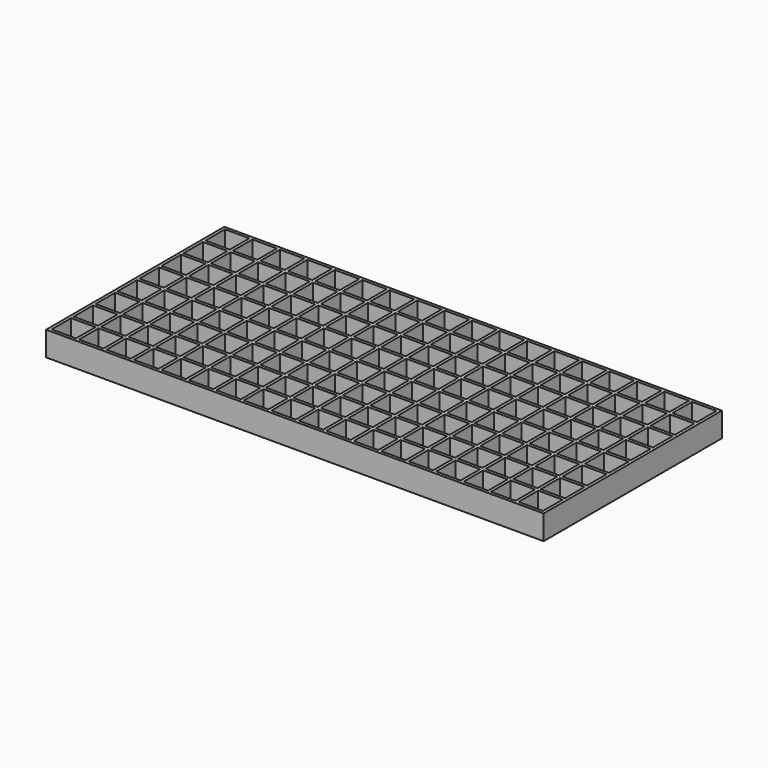
from build123d import *

# Parameters (mm, degrees)
F0_W     = 258.7625
F0_H     = 115.8875
F0_W_2   = 12.7
F0_H_2   = 12.7
F1_DEPTH = 12.7


with BuildPart() as f1:
    # F0 (on Top) → F1 (new body)
    with BuildSketch(Plane.XY):
        with Locations((127.79375, 56.35625)):
            Rectangle(F0_W, F0_H)
        with Locations((6.35, 6.35)):
            Rectangle(F0_W_2, F0_H_2, mode=Mode.SUBTRACT)
        with Locations((20.6375, 6.35)):
            Rectangle(F0_W_2, F0_H_2, mode=Mode.SUBTRACT)
        with Locations((34.925, 6.35)):
            Rectangle(F0_W_2, F0_H_2, mode=Mode.SUBTRACT)
        with Locations((49.2125, 6.35)):
            Rectangle(F0_W_2, F0_H_2, mode=Mode.SUBTRACT)
        with Locations((6.35, 20.6375)):
            Rectangle(F0_W_2, F0_H_2, mode=Mode.SUBTRACT)
        with Locations((20.6375, 20.6375)):
            Rectangle(F0_W_2, F0_H_2, mode=Mode.SUBTRACT)
        with Locations((34.925, 20.6375)):
            Rectangle(F0_W_2, F0_H_2, mode=Mode.SUBTRACT)
        with Locations((49.2125, 20.6375)):
            Rectangle(F0_W_2, F0_H_2, mode=Mode.SUBTRACT)
        with Locations((63.5, 6.35)):
            Rectangle(F0_W_2, F0_H_2, mode=Mode.SUBTRACT)
        with Locations((77.7875, 6.35)):
            Rectangle(F0_W_2, F0_H_2, mode=Mode.SUBTRACT)
        with Locations((92.075, 6.35)):
            Rectangle(F0_W_2, F0_H_2, mode=Mode.SUBTRACT)
        with Locations((106.3625, 6.35)):
            Rectangle(F0_W_2, F0_H_2, mode=Mode.SUBTRACT)
        with Locations((120.65, 6.35)):
            Rectangle(F0_W_2, F0_H_2, mode=Mode.SUBTRACT)
        with Locations((63.5, 20.6375)):
            Rectangle(F0_W_2, F0_H_2, mode=Mode.SUBTRACT)
        with Locations((77.7875, 20.6375)):
            Rectangle(F0_W_2, F0_H_2, mode=Mode.SUBTRACT)
        with Locations((92.075, 20.6375)):
            Rectangle(F0_W_2, F0_H_2, mode=Mode.SUBTRACT)
        with Locations((106.3625, 20.6375)):
            Rectangle(F0_W_2, F0_H_2, mode=Mode.SUBTRACT)
        with Locations((120.65, 20.6375)):
            Rectangle(F0_W_2, F0_H_2, mode=Mode.SUBTRACT)
        with Locations((6.35, 34.925)):
            Rectangle(F0_W_2, F0_H_2, mode=Mode.SUBTRACT)
        with Locations((20.6375, 34.925)):
            Rectangle(F0_W_2, F0_H_2, mode=Mode.SUBTRACT)
        with Locations((34.925, 34.925)):
            Rectangle(F0_W_2, F0_H_2, mode=Mode.SUBTRACT)
        with Locations((49.2125, 34.925)):
            Rectangle(F0_W_2, F0_H_2, mode=Mode.SUBTRACT)
        with Locations((6.35, 49.2125)):
            Rectangle(F0_W_2, F0_H_2, mode=Mode.SUBTRACT)
        with Locations((20.6375, 49.2125)):
            Rectangle(F0_W_2, F0_H_2, mode=Mode.SUBTRACT)
        with Locations((34.925, 49.2125)):
            Rectangle(F0_W_2, F0_H_2, mode=Mode.SUBTRACT)
        with Locations((49.2125, 49.2125)):
            Rectangle(F0_W_2, F0_H_2, mode=Mode.SUBTRACT)
        with Locations((63.5, 34.925)):
            Rectangle(F0_W_2, F0_H_2, mode=Mode.SUBTRACT)
        with Locations((77.7875, 34.925)):
            Rectangle(F0_W_2, F0_H_2, mode=Mode.SUBTRACT)
        with Locations((92.075, 34.925)):
            Rectangle(F0_W_2, F0_H_2, mode=Mode.SUBTRACT)
        with Locations((106.3625, 34.925)):
            Rectangle(F0_W_2, F0_H_2, mode=Mode.SUBTRACT)
        with Locations((120.65, 34.925)):
            Rectangle(F0_W_2, F0_H_2, mode=Mode.SUBTRACT)
        with Locations((63.5, 49.2125)):
            Rectangle(F0_W_2, F0_H_2, mode=Mode.SUBTRACT)
        with Locations((77.7875, 49.2125)):
            Rectangle(F0_W_2, F0_H_2, mode=Mode.SUBTRACT)
        with Locations((92.075, 49.2125)):
            Rectangle(F0_W_2, F0_H_2, mode=Mode.SUBTRACT)
        with Locations((106.3625, 49.2125)):
            Rectangle(F0_W_2, F0_H_2, mode=Mode.SUBTRACT)
        with Locations((120.65, 49.2125)):
            Rectangle(F0_W_2, F0_H_2, mode=Mode.SUBTRACT)
        with Locations((134.9375, 6.35)):
            Rectangle(F0_W_2, F0_H_2, mode=Mode.SUBTRACT)
        with Locations((149.225, 6.35)):
            Rectangle(F0_W_2, F0_H_2, mode=Mode.SUBTRACT)
        with Locations((163.5125, 6.35)):
            Rectangle(F0_W_2, F0_H_2, mode=Mode.SUBTRACT)
        with Locations((177.8, 6.35)):
            Rectangle(F0_W_2, F0_H_2, mode=Mode.SUBTRACT)
        with Locations((192.0875, 6.35)):
            Rectangle(F0_W_2, F0_H_2, mode=Mode.SUBTRACT)
        with Locations((134.9375, 20.6375)):
            Rectangle(F0_W_2, F0_H_2, mode=Mode.SUBTRACT)
        with Locations((149.225, 20.6375)):
            Rectangle(F0_W_2, F0_H_2, mode=Mode.SUBTRACT)
        with Locations((163.5125, 20.6375)):
            Rectangle(F0_W_2, F0_H_2, mode=Mode.SUBTRACT)
        with Locations((177.8, 20.6375)):
            Rectangle(F0_W_2, F0_H_2, mode=Mode.SUBTRACT)
        with Locations((192.0875, 20.6375)):
            Rectangle(F0_W_2, F0_H_2, mode=Mode.SUBTRACT)
        with Locations((206.375, 6.35)):
            Rectangle(F0_W_2, F0_H_2, mode=Mode.SUBTRACT)
        with Locations((220.6625, 6.35)):
            Rectangle(F0_W_2, F0_H_2, mode=Mode.SUBTRACT)
        with Locations((234.95, 6.35)):
            Rectangle(F0_W_2, F0_H_2, mode=Mode.SUBTRACT)
        with Locations((249.2375, 6.35)):
            Rectangle(F0_W_2, F0_H_2, mode=Mode.SUBTRACT)
        with Locations((206.375, 20.6375)):
            Rectangle(F0_W_2, F0_H_2, mode=Mode.SUBTRACT)
        with Locations((220.6625, 20.6375)):
            Rectangle(F0_W_2, F0_H_2, mode=Mode.SUBTRACT)
        with Locations((234.95, 20.6375)):
            Rectangle(F0_W_2, F0_H_2, mode=Mode.SUBTRACT)
        with Locations((249.2375, 20.6375)):
            Rectangle(F0_W_2, F0_H_2, mode=Mode.SUBTRACT)
        with Locations((134.9375, 34.925)):
            Rectangle(F0_W_2, F0_H_2, mode=Mode.SUBTRACT)
        with Locations((149.225, 34.925)):
            Rectangle(F0_W_2, F0_H_2, mode=Mode.SUBTRACT)
        with Locations((163.5125, 34.925)):
            Rectangle(F0_W_2, F0_H_2, mode=Mode.SUBTRACT)
        with Locations((177.8, 34.925)):
            Rectangle(F0_W_2, F0_H_2, mode=Mode.SUBTRACT)
        with Locations((192.0875, 34.925)):
            Rectangle(F0_W_2, F0_H_2, mode=Mode.SUBTRACT)
        with Locations((134.9375, 49.2125)):
            Rectangle(F0_W_2, F0_H_2, mode=Mode.SUBTRACT)
        with Locations((149.225, 49.2125)):
            Rectangle(F0_W_2, F0_H_2, mode=Mode.SUBTRACT)
        with Locations((163.5125, 49.2125)):
            Rectangle(F0_W_2, F0_H_2, mode=Mode.SUBTRACT)
        with Locations((177.8, 49.2125)):
            Rectangle(F0_W_2, F0_H_2, mode=Mode.SUBTRACT)
        with Locations((192.0875, 49.2125)):
            Rectangle(F0_W_2, F0_H_2, mode=Mode.SUBTRACT)
        with Locations((206.375, 34.925)):
            Rectangle(F0_W_2, F0_H_2, mode=Mode.SUBTRACT)
        with Locations((220.6625, 34.925)):
            Rectangle(F0_W_2, F0_H_2, mode=Mode.SUBTRACT)
        with Locations((234.95, 34.925)):
            Rectangle(F0_W_2, F0_H_2, mode=Mode.SUBTRACT)
        with Locations((249.2375, 34.925)):
            Rectangle(F0_W_2, F0_H_2, mode=Mode.SUBTRACT)
        with Locations((206.375, 49.2125)):
            Rectangle(F0_W_2, F0_H_2, mode=Mode.SUBTRACT)
        with Locations((220.6625, 49.2125)):
            Rectangle(F0_W_2, F0_H_2, mode=Mode.SUBTRACT)
        with Locations((234.95, 49.2125)):
            Rectangle(F0_W_2, F0_H_2, mode=Mode.SUBTRACT)
        with Locations((249.2375, 49.2125)):
            Rectangle(F0_W_2, F0_H_2, mode=Mode.SUBTRACT)
        with Locations((6.35, 63.5)):
            Rectangle(F0_W_2, F0_H_2, mode=Mode.SUBTRACT)
        with Locations((20.6375, 63.5)):
            Rectangle(F0_W_2, F0_H_2, mode=Mode.SUBTRACT)
        with Locations((34.925, 63.5)):
            Rectangle(F0_W_2, F0_H_2, mode=Mode.SUBTRACT)
        with Locations((49.2125, 63.5)):
            Rectangle(F0_W_2, F0_H_2, mode=Mode.SUBTRACT)
        with Locations((6.35, 77.7875)):
            Rectangle(F0_W_2, F0_H_2, mode=Mode.SUBTRACT)
        with Locations((20.6375, 77.7875)):
            Rectangle(F0_W_2, F0_H_2, mode=Mode.SUBTRACT)
        with Locations((34.925, 77.7875)):
            Rectangle(F0_W_2, F0_H_2, mode=Mode.SUBTRACT)
        with Locations((49.2125, 77.7875)):
            Rectangle(F0_W_2, F0_H_2, mode=Mode.SUBTRACT)
        with Locations((63.5, 63.5)):
            Rectangle(F0_W_2, F0_H_2, mode=Mode.SUBTRACT)
        with Locations((77.7875, 63.5)):
            Rectangle(F0_W_2, F0_H_2, mode=Mode.SUBTRACT)
        with Locations((92.075, 63.5)):
            Rectangle(F0_W_2, F0_H_2, mode=Mode.SUBTRACT)
        with Locations((106.3625, 63.5)):
            Rectangle(F0_W_2, F0_H_2, mode=Mode.SUBTRACT)
        with Locations((120.65, 63.5)):
            Rectangle(F0_W_2, F0_H_2, mode=Mode.SUBTRACT)
        with Locations((63.5, 77.7875)):
            Rectangle(F0_W_2, F0_H_2, mode=Mode.SUBTRACT)
        with Locations((77.7875, 77.7875)):
            Rectangle(F0_W_2, F0_H_2, mode=Mode.SUBTRACT)
        with Locations((92.075, 77.7875)):
            Rectangle(F0_W_2, F0_H_2, mode=Mode.SUBTRACT)
        with Locations((106.3625, 77.7875)):
            Rectangle(F0_W_2, F0_H_2, mode=Mode.SUBTRACT)
        with Locations((120.65, 77.7875)):
            Rectangle(F0_W_2, F0_H_2, mode=Mode.SUBTRACT)
        with Locations((6.35, 92.075)):
            Rectangle(F0_W_2, F0_H_2, mode=Mode.SUBTRACT)
        with Locations((20.6375, 92.075)):
            Rectangle(F0_W_2, F0_H_2, mode=Mode.SUBTRACT)
        with Locations((34.925, 92.075)):
            Rectangle(F0_W_2, F0_H_2, mode=Mode.SUBTRACT)
        with Locations((49.2125, 92.075)):
            Rectangle(F0_W_2, F0_H_2, mode=Mode.SUBTRACT)
        with Locations((6.35, 106.3625)):
            Rectangle(F0_W_2, F0_H_2, mode=Mode.SUBTRACT)
        with Locations((20.6375, 106.3625)):
            Rectangle(F0_W_2, F0_H_2, mode=Mode.SUBTRACT)
        with Locations((34.925, 106.3625)):
            Rectangle(F0_W_2, F0_H_2, mode=Mode.SUBTRACT)
        with Locations((49.2125, 106.3625)):
            Rectangle(F0_W_2, F0_H_2, mode=Mode.SUBTRACT)
        with Locations((63.5, 92.075)):
            Rectangle(F0_W_2, F0_H_2, mode=Mode.SUBTRACT)
        with Locations((77.7875, 92.075)):
            Rectangle(F0_W_2, F0_H_2, mode=Mode.SUBTRACT)
        with Locations((92.075, 92.075)):
            Rectangle(F0_W_2, F0_H_2, mode=Mode.SUBTRACT)
        with Locations((106.3625, 92.075)):
            Rectangle(F0_W_2, F0_H_2, mode=Mode.SUBTRACT)
        with Locations((120.65, 92.075)):
            Rectangle(F0_W_2, F0_H_2, mode=Mode.SUBTRACT)
        with Locations((63.5, 106.3625)):
            Rectangle(F0_W_2, F0_H_2, mode=Mode.SUBTRACT)
        with Locations((77.7875, 106.3625)):
            Rectangle(F0_W_2, F0_H_2, mode=Mode.SUBTRACT)
        with Locations((92.075, 106.3625)):
            Rectangle(F0_W_2, F0_H_2, mode=Mode.SUBTRACT)
        with Locations((106.3625, 106.3625)):
            Rectangle(F0_W_2, F0_H_2, mode=Mode.SUBTRACT)
        with Locations((120.65, 106.3625)):
            Rectangle(F0_W_2, F0_H_2, mode=Mode.SUBTRACT)
        with Locations((134.9375, 63.5)):
            Rectangle(F0_W_2, F0_H_2, mode=Mode.SUBTRACT)
        with Locations((149.225, 63.5)):
            Rectangle(F0_W_2, F0_H_2, mode=Mode.SUBTRACT)
        with Locations((163.5125, 63.5)):
            Rectangle(F0_W_2, F0_H_2, mode=Mode.SUBTRACT)
        with Locations((177.8, 63.5)):
            Rectangle(F0_W_2, F0_H_2, mode=Mode.SUBTRACT)
        with Locations((192.0875, 63.5)):
            Rectangle(F0_W_2, F0_H_2, mode=Mode.SUBTRACT)
        with Locations((134.9375, 77.7875)):
            Rectangle(F0_W_2, F0_H_2, mode=Mode.SUBTRACT)
        with Locations((149.225, 77.7875)):
            Rectangle(F0_W_2, F0_H_2, mode=Mode.SUBTRACT)
        with Locations((163.5125, 77.7875)):
            Rectangle(F0_W_2, F0_H_2, mode=Mode.SUBTRACT)
        with Locations((177.8, 77.7875)):
            Rectangle(F0_W_2, F0_H_2, mode=Mode.SUBTRACT)
        with Locations((192.0875, 77.7875)):
            Rectangle(F0_W_2, F0_H_2, mode=Mode.SUBTRACT)
        with Locations((206.375, 63.5)):
            Rectangle(F0_W_2, F0_H_2, mode=Mode.SUBTRACT)
        with Locations((220.6625, 63.5)):
            Rectangle(F0_W_2, F0_H_2, mode=Mode.SUBTRACT)
        with Locations((234.95, 63.5)):
            Rectangle(F0_W_2, F0_H_2, mode=Mode.SUBTRACT)
        with Locations((249.2375, 63.5)):
            Rectangle(F0_W_2, F0_H_2, mode=Mode.SUBTRACT)
        with Locations((206.375, 77.7875)):
            Rectangle(F0_W_2, F0_H_2, mode=Mode.SUBTRACT)
        with Locations((220.6625, 77.7875)):
            Rectangle(F0_W_2, F0_H_2, mode=Mode.SUBTRACT)
        with Locations((234.95, 77.7875)):
            Rectangle(F0_W_2, F0_H_2, mode=Mode.SUBTRACT)
        with Locations((249.2375, 77.7875)):
            Rectangle(F0_W_2, F0_H_2, mode=Mode.SUBTRACT)
        with Locations((134.9375, 92.075)):
            Rectangle(F0_W_2, F0_H_2, mode=Mode.SUBTRACT)
        with Locations((149.225, 92.075)):
            Rectangle(F0_W_2, F0_H_2, mode=Mode.SUBTRACT)
        with Locations((163.5125, 92.075)):
            Rectangle(F0_W_2, F0_H_2, mode=Mode.SUBTRACT)
        with Locations((177.8, 92.075)):
            Rectangle(F0_W_2, F0_H_2, mode=Mode.SUBTRACT)
        with Locations((192.0875, 92.075)):
            Rectangle(F0_W_2, F0_H_2, mode=Mode.SUBTRACT)
        with Locations((134.9375, 106.3625)):
            Rectangle(F0_W_2, F0_H_2, mode=Mode.SUBTRACT)
        with Locations((149.225, 106.3625)):
            Rectangle(F0_W_2, F0_H_2, mode=Mode.SUBTRACT)
        with Locations((163.5125, 106.3625)):
            Rectangle(F0_W_2, F0_H_2, mode=Mode.SUBTRACT)
        with Locations((177.8, 106.3625)):
            Rectangle(F0_W_2, F0_H_2, mode=Mode.SUBTRACT)
        with Locations((192.0875, 106.3625)):
            Rectangle(F0_W_2, F0_H_2, mode=Mode.SUBTRACT)
        with Locations((206.375, 92.075)):
            Rectangle(F0_W_2, F0_H_2, mode=Mode.SUBTRACT)
        with Locations((220.6625, 92.075)):
            Rectangle(F0_W_2, F0_H_2, mode=Mode.SUBTRACT)
        with Locations((234.95, 92.075)):
            Rectangle(F0_W_2, F0_H_2, mode=Mode.SUBTRACT)
        with Locations((249.2375, 92.075)):
            Rectangle(F0_W_2, F0_H_2, mode=Mode.SUBTRACT)
        with Locations((206.375, 106.3625)):
            Rectangle(F0_W_2, F0_H_2, mode=Mode.SUBTRACT)
        with Locations((220.6625, 106.3625)):
            Rectangle(F0_W_2, F0_H_2, mode=Mode.SUBTRACT)
        with Locations((234.95, 106.3625)):
            Rectangle(F0_W_2, F0_H_2, mode=Mode.SUBTRACT)
        with Locations((249.2375, 106.3625)):
            Rectangle(F0_W_2, F0_H_2, mode=Mode.SUBTRACT)
    extrude(amount=F1_DEPTH)


solid = f1.part
